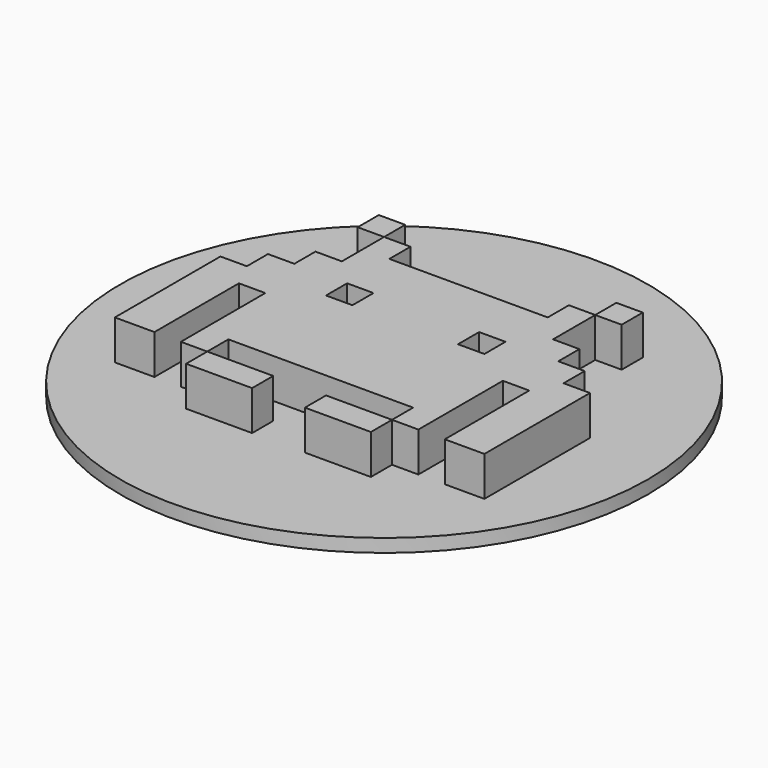
from build123d import *

# Parameters (mm, degrees)
BOX025_W                  = 1
BOX025_H                  = 1
BOX025_DEPTH              = 2
BOX027_W                  = 10
BOX027_H                  = 10
BOX027_DEPTH              = 10
BOX024_W                  = 10
BOX024_H                  = 10
BOX024_DEPTH              = 10
BOX017_W                  = 1
BOX017_H                  = 1
BOX017_DEPTH              = 2
BOX018_W                  = 1
BOX018_H                  = 1
BOX018_DEPTH              = 2
BOX019_W                  = 4
BOX019_H                  = 1
BOX019_DEPTH              = 2
BOX020_W                  = 1
BOX020_H                  = 1
BOX020_DEPTH              = 2
BOX021_W                  = 1
BOX021_H                  = 1
BOX021_DEPTH              = 2
BOX022_W                  = 4
BOX022_H                  = 1
BOX022_DEPTH              = 2
BOX023_W                  = 3.5
BOX023_H                  = 1
BOX023_DEPTH              = 2
BOX016_W                  = 1
BOX016_H                  = 1
BOX016_DEPTH              = 2
BOX015_W                  = 7
BOX015_H                  = 10
BOX015_DEPTH              = 2
BOX028_W                  = 1
BOX028_H                  = 1
BOX028_DEPTH              = 2
BOX026_W                  = 1
BOX026_H                  = 1
BOX026_DEPTH              = 2
BOX029_W                  = 2.5
BOX029_H                  = 1
BOX029_DEPTH              = 2
FUSION001_PLACEMENT_ANGLE = 180
BOX010_W                  = 1
BOX010_H                  = 1
BOX010_DEPTH              = 2
BOX012_W                  = 10
BOX012_H                  = 10
BOX012_DEPTH              = 10
BOX009_W                  = 10
BOX009_H                  = 10
BOX009_DEPTH              = 10
BOX002_W                  = 1
BOX002_H                  = 1
BOX002_DEPTH              = 2
BOX003_W                  = 1
BOX003_H                  = 1
BOX003_DEPTH              = 2
BOX004_W                  = 4
BOX004_H                  = 1
BOX004_DEPTH              = 2
BOX005_W                  = 1
BOX005_H                  = 1
BOX005_DEPTH              = 2
BOX006_W                  = 1
BOX006_H                  = 1
BOX006_DEPTH              = 2
BOX007_W                  = 4
BOX007_H                  = 1
BOX007_DEPTH              = 2
BOX008_W                  = 3.5
BOX008_H                  = 1
BOX008_DEPTH              = 2
BOX001_W                  = 1
BOX001_H                  = 1
BOX001_DEPTH              = 2
BOX_W                     = 7
BOX_H                     = 10
BOX_DEPTH                 = 2
BOX013_W                  = 1
BOX013_H                  = 1
BOX013_DEPTH              = 2
BOX011_W                  = 1
BOX011_H                  = 1
BOX011_DEPTH              = 2
BOX014_W                  = 2.5
BOX014_H                  = 1
BOX014_DEPTH              = 2
CYLINDER_R                = 10
CYLINDER_DEPTH            = 0.5


with BuildPart() as cubo025:
    # Box025 → Box025 (new body)
    with BuildSketch(Plane(origin=(-5, 3, 0), x_dir=(1, 0, 0), z_dir=(0, 0, 1))):
        with Locations((0.5, 0.5)):
            Rectangle(BOX025_W, BOX025_H)
    extrude(amount=BOX025_DEPTH)


with BuildPart() as cubo027:
    # Box027 → Box027 (new body)
    with BuildSketch(Plane(origin=(-15, 1, 0), x_dir=(1, 0, 0), z_dir=(0, 0, 1))):
        with Locations((5, 5)):
            Rectangle(BOX027_W, BOX027_H)
    extrude(amount=BOX027_DEPTH)


with BuildPart() as cubo024:
    # Box024 → Box024 (new body)
    with BuildSketch(Plane(origin=(-4, 3, 0), x_dir=(1, 0, 0), z_dir=(0, 0, 1))):
        with Locations((5, 5)):
            Rectangle(BOX024_W, BOX024_H)
    extrude(amount=BOX024_DEPTH)


with BuildPart() as cubo017:
    # Box017 → Box017 (new body)
    with BuildSketch(Plane(origin=(-3, 0, 0), x_dir=(1, 0, 0), z_dir=(0, 0, 1))):
        with Locations((0.5, 0.5)):
            Rectangle(BOX017_W, BOX017_H)
    extrude(amount=BOX017_DEPTH)


with BuildPart() as cubo018:
    # Box018 → Box018 (new body)
    with BuildSketch(Plane(origin=(-5, 2, 0), x_dir=(1, 0, 0), z_dir=(0, 0, 1))):
        with Locations((0.5, 0.5)):
            Rectangle(BOX018_W, BOX018_H)
    extrude(amount=BOX018_DEPTH)


with BuildPart() as cubo019:
    # Box019 → Box019 (new body)
    with BuildSketch(Plane(origin=(-5.5, -1, 0), x_dir=(0, -1, 0), z_dir=(0, 0, 1))):
        with Locations((2, 0.5)):
            Rectangle(BOX019_W, BOX019_H)
    extrude(amount=BOX019_DEPTH)


with BuildPart() as cubo020:
    # Box020 → Box020 (new body)
    with BuildSketch(Plane(origin=(-5, 4, 0), x_dir=(1, 0, 0), z_dir=(0, 0, 1))):
        with Locations((0.5, 0.5)):
            Rectangle(BOX020_W, BOX020_H)
    extrude(amount=BOX020_DEPTH)


with BuildPart() as cubo021:
    # Box021 → Box021 (new body)
    with BuildSketch(Plane(origin=(-6, 1, 0), x_dir=(1, 0, 0), z_dir=(0, 0, 1))):
        with Locations((0.5, 0.5)):
            Rectangle(BOX021_W, BOX021_H)
    extrude(amount=BOX021_DEPTH)


with BuildPart() as cubo022:
    # Box022 → Box022 (new body)
    with BuildSketch(Plane(origin=(-4, 3, 0), x_dir=(1, 0, 0), z_dir=(0, 0, 1))):
        with Locations((2, 0.5)):
            Rectangle(BOX022_W, BOX022_H)
    extrude(amount=BOX022_DEPTH)


with BuildPart() as cubo023:
    # Box023 → Box023 (new body)
    with BuildSketch(Plane(origin=(-3.5, -5, 0), x_dir=(1, 0, 0), z_dir=(0, 0, 1))):
        with Locations((1.75, 0.5)):
            Rectangle(BOX023_W, BOX023_H)
    extrude(amount=BOX023_DEPTH)


with BuildPart() as cubo016:
    # Box016 → Box016 (new body)
    with BuildSketch(Plane(origin=(-7, 0, 0), x_dir=(1, 0, 0), z_dir=(0, 0, 1))):
        with Locations((0.5, 0.5)):
            Rectangle(BOX016_W, BOX016_H)
    extrude(amount=BOX016_DEPTH)


with BuildPart() as cut021:
    # Box015 → Box015 (new body)
    with BuildSketch(Plane(origin=(-7, -5, 0), x_dir=(1, 0, 0), z_dir=(0, 0, 1))):
        with Locations((3.5, 5)):
            Rectangle(BOX015_W, BOX015_H)
    extrude(amount=BOX015_DEPTH)

    # Cut011: cut Cubo016
    add(cubo016.part, mode=Mode.SUBTRACT)

    # Cut012: cut Cubo023
    add(cubo023.part, mode=Mode.SUBTRACT)

    # Cut013: cut Cubo022
    add(cubo022.part, mode=Mode.SUBTRACT)

    # Cut014: cut Cubo021
    add(cubo021.part, mode=Mode.SUBTRACT)

    # Cut015: cut Cubo020
    add(cubo020.part, mode=Mode.SUBTRACT)

    # Cut016: cut Cubo019
    add(cubo019.part, mode=Mode.SUBTRACT)

    # Cut017: cut Cubo018
    add(cubo018.part, mode=Mode.SUBTRACT)

    # Cut018: cut Cubo017
    add(cubo017.part, mode=Mode.SUBTRACT)

    # Cut019: cut Cubo024
    add(cubo024.part, mode=Mode.SUBTRACT)

    # Cut020: cut Cubo027
    add(cubo027.part, mode=Mode.SUBTRACT)

    # Cut021: cut Cubo025
    add(cubo025.part, mode=Mode.SUBTRACT)


with BuildPart() as cubo028:
    # Box028 → Box028 (new body)
    with BuildSketch(Plane(origin=(-4, 3, 0), x_dir=(1, 0, 0), z_dir=(0, 0, 1))):
        with Locations((0.5, 0.5)):
            Rectangle(BOX028_W, BOX028_H)
    extrude(amount=BOX028_DEPTH)


with BuildPart() as cubo026:
    # Box026 → Box026 (new body)
    with BuildSketch(Plane(origin=(-5, 4, 0), x_dir=(1, 0, 0), z_dir=(0, 0, 1))):
        with Locations((0.5, 0.5)):
            Rectangle(BOX026_W, BOX026_H)
    extrude(amount=BOX026_DEPTH)


with BuildPart() as fusion001:
    # Box029 → Box029 (new body)
    with BuildSketch(Plane(origin=(-3.5, -6, 0), x_dir=(1, 0, 0), z_dir=(0, 0, 1))):
        with Locations((1.25, 0.5)):
            Rectangle(BOX029_W, BOX029_H)
    extrude(amount=BOX029_DEPTH)

    # Fusion001: union Cut021, Cubo028, Cubo026
    add(cut021.part)
    add(cubo028.part)
    add(cubo026.part)


with BuildPart() as fusion001_1:
    # Fusion001 placement: moved
    add(fusion001.part.moved(Location((0, 0, 2))).rotate(Axis((0, 0, 2), (0, 1, 0)), FUSION001_PLACEMENT_ANGLE))


with BuildPart() as cubo010:
    # Box010 → Box010 (new body)
    with BuildSketch(Plane(origin=(-5, 3, 0), x_dir=(1, 0, 0), z_dir=(0, 0, 1))):
        with Locations((0.5, 0.5)):
            Rectangle(BOX010_W, BOX010_H)
    extrude(amount=BOX010_DEPTH)


with BuildPart() as cubo012:
    # Box012 → Box012 (new body)
    with BuildSketch(Plane(origin=(-15, 1, 0), x_dir=(1, 0, 0), z_dir=(0, 0, 1))):
        with Locations((5, 5)):
            Rectangle(BOX012_W, BOX012_H)
    extrude(amount=BOX012_DEPTH)


with BuildPart() as cubo009:
    # Box009 → Box009 (new body)
    with BuildSketch(Plane(origin=(-4, 3, 0), x_dir=(1, 0, 0), z_dir=(0, 0, 1))):
        with Locations((5, 5)):
            Rectangle(BOX009_W, BOX009_H)
    extrude(amount=BOX009_DEPTH)


with BuildPart() as cubo002:
    # Box002 → Box002 (new body)
    with BuildSketch(Plane(origin=(-3, 0, 0), x_dir=(1, 0, 0), z_dir=(0, 0, 1))):
        with Locations((0.5, 0.5)):
            Rectangle(BOX002_W, BOX002_H)
    extrude(amount=BOX002_DEPTH)


with BuildPart() as cubo003:
    # Box003 → Box003 (new body)
    with BuildSketch(Plane(origin=(-5, 2, 0), x_dir=(1, 0, 0), z_dir=(0, 0, 1))):
        with Locations((0.5, 0.5)):
            Rectangle(BOX003_W, BOX003_H)
    extrude(amount=BOX003_DEPTH)


with BuildPart() as cubo004:
    # Box004 → Box004 (new body)
    with BuildSketch(Plane(origin=(-5.5, -1, 0), x_dir=(0, -1, 0), z_dir=(0, 0, 1))):
        with Locations((2, 0.5)):
            Rectangle(BOX004_W, BOX004_H)
    extrude(amount=BOX004_DEPTH)


with BuildPart() as cubo005:
    # Box005 → Box005 (new body)
    with BuildSketch(Plane(origin=(-5, 4, 0), x_dir=(1, 0, 0), z_dir=(0, 0, 1))):
        with Locations((0.5, 0.5)):
            Rectangle(BOX005_W, BOX005_H)
    extrude(amount=BOX005_DEPTH)


with BuildPart() as cubo006:
    # Box006 → Box006 (new body)
    with BuildSketch(Plane(origin=(-6, 1, 0), x_dir=(1, 0, 0), z_dir=(0, 0, 1))):
        with Locations((0.5, 0.5)):
            Rectangle(BOX006_W, BOX006_H)
    extrude(amount=BOX006_DEPTH)


with BuildPart() as cubo007:
    # Box007 → Box007 (new body)
    with BuildSketch(Plane(origin=(-4, 3, 0), x_dir=(1, 0, 0), z_dir=(0, 0, 1))):
        with Locations((2, 0.5)):
            Rectangle(BOX007_W, BOX007_H)
    extrude(amount=BOX007_DEPTH)


with BuildPart() as cubo008:
    # Box008 → Box008 (new body)
    with BuildSketch(Plane(origin=(-3.5, -5, 0), x_dir=(1, 0, 0), z_dir=(0, 0, 1))):
        with Locations((1.75, 0.5)):
            Rectangle(BOX008_W, BOX008_H)
    extrude(amount=BOX008_DEPTH)


with BuildPart() as cubo001:
    # Box001 → Box001 (new body)
    with BuildSketch(Plane(origin=(-7, 0, 0), x_dir=(1, 0, 0), z_dir=(0, 0, 1))):
        with Locations((0.5, 0.5)):
            Rectangle(BOX001_W, BOX001_H)
    extrude(amount=BOX001_DEPTH)


with BuildPart() as cut010:
    # Box → Box (new body)
    with BuildSketch(Plane(origin=(-7, -5, 0), x_dir=(1, 0, 0), z_dir=(0, 0, 1))):
        with Locations((3.5, 5)):
            Rectangle(BOX_W, BOX_H)
    extrude(amount=BOX_DEPTH)

    # Cut: cut Cubo001
    add(cubo001.part, mode=Mode.SUBTRACT)

    # Cut001: cut Cubo008
    add(cubo008.part, mode=Mode.SUBTRACT)

    # Cut002: cut Cubo007
    add(cubo007.part, mode=Mode.SUBTRACT)

    # Cut003: cut Cubo006
    add(cubo006.part, mode=Mode.SUBTRACT)

    # Cut004: cut Cubo005
    add(cubo005.part, mode=Mode.SUBTRACT)

    # Cut005: cut Cubo004
    add(cubo004.part, mode=Mode.SUBTRACT)

    # Cut006: cut Cubo003
    add(cubo003.part, mode=Mode.SUBTRACT)

    # Cut007: cut Cubo002
    add(cubo002.part, mode=Mode.SUBTRACT)

    # Cut008: cut Cubo009
    add(cubo009.part, mode=Mode.SUBTRACT)

    # Cut009: cut Cubo012
    add(cubo012.part, mode=Mode.SUBTRACT)

    # Cut010: cut Cubo010
    add(cubo010.part, mode=Mode.SUBTRACT)


with BuildPart() as cubo013:
    # Box013 → Box013 (new body)
    with BuildSketch(Plane(origin=(-4, 3, 0), x_dir=(1, 0, 0), z_dir=(0, 0, 1))):
        with Locations((0.5, 0.5)):
            Rectangle(BOX013_W, BOX013_H)
    extrude(amount=BOX013_DEPTH)


with BuildPart() as cubo011:
    # Box011 → Box011 (new body)
    with BuildSketch(Plane(origin=(-5, 4, 0), x_dir=(1, 0, 0), z_dir=(0, 0, 1))):
        with Locations((0.5, 0.5)):
            Rectangle(BOX011_W, BOX011_H)
    extrude(amount=BOX011_DEPTH)


with BuildPart() as fusion002:
    # Box014 → Box014 (new body)
    with BuildSketch(Plane(origin=(-3.5, -6, 0), x_dir=(1, 0, 0), z_dir=(0, 0, 1))):
        with Locations((1.25, 0.5)):
            Rectangle(BOX014_W, BOX014_H)
    extrude(amount=BOX014_DEPTH)

    # Fusion: union Cut010, Cubo013, Cubo011
    add(cut010.part)
    add(cubo013.part)
    add(cubo011.part)

    # Fusion002: union Fusion001
    add(fusion001_1.part)


with BuildPart() as fusion002_1:
    # Fusion002 placement: moved
    add(fusion002.part.moved(Location((0, 1, 0))))


with BuildPart() as fusion003:
    # Cylinder → Cylinder (new body)
    with BuildSketch(Plane.XY):
        Circle(CYLINDER_R)
    extrude(amount=CYLINDER_DEPTH)

    # Fusion003: union Fusion002
    add(fusion002_1.part)


solid = fusion003.part
